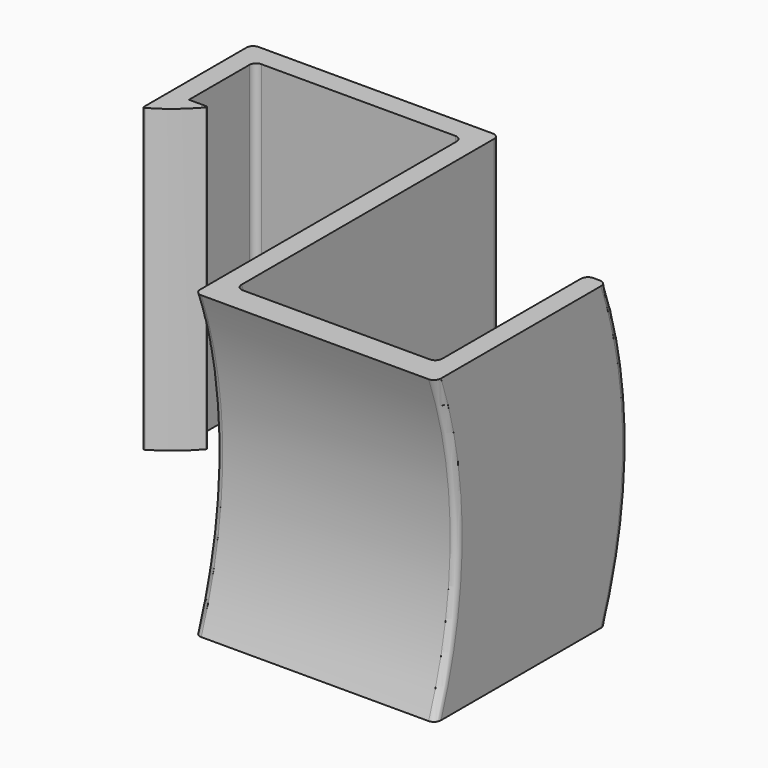
from build123d import *

# Parameters (mm, degrees)
F1_DEPTH = 45
F3_DEPTH = 30
F4_DEPTH = 3
F6_DEPTH = 3
F7_R     = 1
F8_R     = 0.2


with BuildPart() as f1:
    # F0 (on Top) → F1 (new body)
    with BuildSketch(Plane.XY):
        with BuildLine():
            Line((-22.0269914716, 9.8525723957), (8.9730085284, 9.8525723957))
            Line((8.9730085284, 9.8525723957), (8.9730085284, -40.1474276043))
            Line((8.9730085284, -40.1474276043), (11.9730085284, -40.1474276043))
            Line((11.9730085284, -40.1474276043), (11.9730085284, 13.0525723957))
            Line((11.9730085284, 13.0525723957), (-25.0269914716, 13.0525723957))
            Line((-25.0269914716, 13.0525723957), (-25.0269914716, -7.4474276043))
            ThreePointArc((-25.0269914716, -7.4474276043), (-21.791751143, -5.2297159987), (-19.0269914716, -2.4474276043))
            Line((-19.0269914716, -2.4474276043), (-22.0269914716, -2.4474276043))
            Line((-22.0269914716, -2.4474276043), (-22.0269914716, 9.8525723957))
        make_face()
    extrude(amount=F1_DEPTH)

    # F2 (on face) → F3 (join)
    with BuildSketch(Plane.YZ.offset(11.9730085284)):
        with BuildLine():
            Line((-40.1474276043, 0), (-36.1474276043, 0))
            ThreePointArc((-36.1474276043, 0), (-32.1289821926, 22.5), (-36.1474276043, 45))
            Line((-36.1474276043, 45), (-40.1474276043, 45))
            ThreePointArc((-40.1474276043, 45), (-36.1289821926, 22.5), (-40.1474276043, 0))
        make_face()
    extrude(amount=F3_DEPTH)

    # F4 (cut): a face of the model
    f4_faces = [f1.faces().sort_by_distance(p)[0] for p in [
        (11.9730085284, -38.5357130978, 22.5),
    ]]
    extrude(f4_faces, amount=-F4_DEPTH, mode=Mode.SUBTRACT)

    # F5 (on face) → F6 (join)
    with BuildSketch(Plane.YZ.offset(41.9730085284)):
        with BuildLine():
            ThreePointArc((-40.1474276043, 45), (-36.1289821926, 22.5), (-40.1474276043, 0))
            Line((-40.1474276043, 0), (-8.1474276043, 0))
            ThreePointArc((-8.1474276043, 0), (-4.1289821926, 22.5), (-8.1474276043, 45))
            Line((-8.1474276043, 45), (-40.1474276043, 45))
        make_face()
        with BuildLine():
            ThreePointArc((-40.1474276043, 45), (-36.1289821926, 22.5), (-40.1474276043, 0))
            Line((-40.1474276043, 0), (-8.1474276043, 0))
            ThreePointArc((-8.1474276043, 0), (-4.1289821926, 22.5), (-8.1474276043, 45))
            Line((-8.1474276043, 45), (-40.1474276043, 45))
        make_face()
    extrude(amount=F6_DEPTH)

    # F7
    f7_edges = [f1.edges().sort_by_distance(p)[0] for p in [
        (11.973009, 13.052572, 22.5),
        (-25.026991, 13.052572, 22.5),
        (-22.026991, 9.852572, 22.5),
        (8.973009, 9.852572, 22.5),
        (8.973009, -36.128982, 22.5),
        (44.973009, -36.128982, 22.5),
        (44.973009, -4.128982, 22.5),
        (41.973009, -4.128982, 22.5),
        (41.973009, -32.128982, 22.5),
        (11.973009, -32.128982, 22.5),
    ]]
    fillet(f7_edges, radius=F7_R)

    # F8
    f8_edges = [f1.edges().sort_by_distance(p)[0] for p in [
        (-19.026991, -2.447428, 22.5),
        (-25.026991, -7.447428, 22.5),
    ]]
    fillet(f8_edges, radius=F8_R)


solid = f1.part
